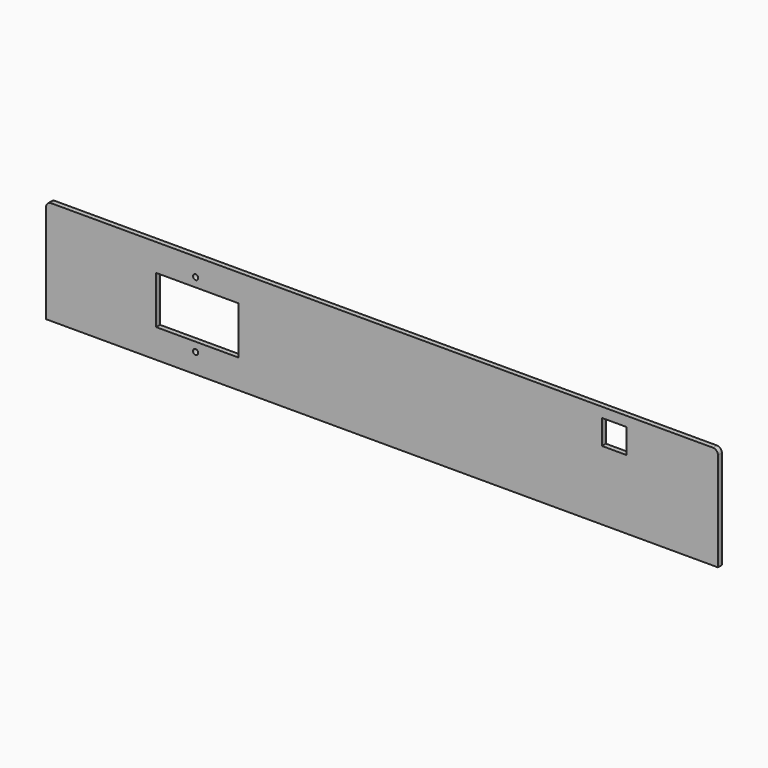
from build123d import *

# Parameters (mm, degrees)
F0_R     = 1.6
F0_W     = 50
F0_H     = 29
F0_W_2   = 15
F0_H_2   = 15
F1_DEPTH = 3


with BuildPart() as f1:
    # F0 (on Front) → F1 (new body)
    with BuildSketch(Plane.XZ):
        with BuildLine():
            Line((176.212173, -50.892883), (-225.787827, -50.892883))
            ThreePointArc((-225.787827, -50.892883), (-227.909148, -51.771563), (-228.787827, -53.892883))
            Line((-228.787827, -53.892883), (-228.787827, -113.892883))
            Line((-228.787827, -113.892883), (179.212173, -113.892883))
            Line((179.212173, -113.892883), (179.212173, -53.892883))
            ThreePointArc((179.212173, -53.892883), (178.333493, -51.771563), (176.212173, -50.892883))
        make_face()
        with Locations((-137.990355, -101.892883)):
            Circle(F0_R, mode=Mode.SUBTRACT)
        with Locations((-136.990355, -81.892883)):
            Rectangle(F0_W, F0_H, mode=Mode.SUBTRACT)
        with Locations((-137.990355, -61.892883)):
            Circle(F0_R, mode=Mode.SUBTRACT)
        with Locations((116.212173, -64.392883)):
            Rectangle(F0_W_2, F0_H_2, mode=Mode.SUBTRACT)
    extrude(amount=F1_DEPTH)


solid = f1.part
